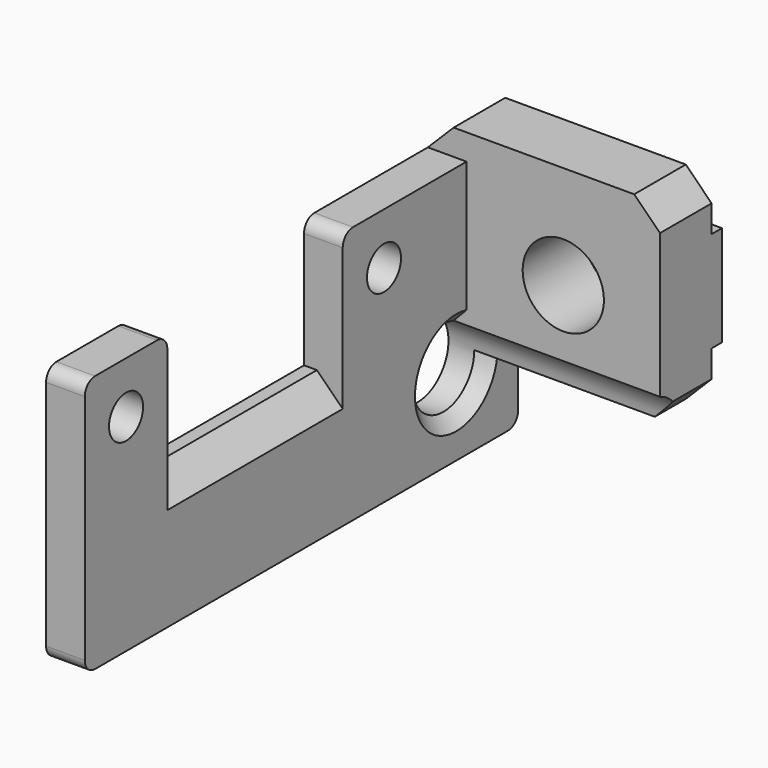
from build123d import *

# Parameters (mm, degrees)
CYLINDER055_R            = 3
CYLINDER055_DEPTH        = 26
CYLINDER047_R            = 1.65
CYLINDER047_DEPTH        = 23
CYLINDER046_R            = 1.65
CYLINDER046_DEPTH        = 23
BOX079_W                 = 3
BOX079_H                 = 17
BOX079_DEPTH             = 20
FILLET005015030019017_R  = 1
BOX080_W                 = 3
BOX080_H                 = 17
BOX080_DEPTH             = 10
CHAMFER010015011014_SIZE = 2
BOX078_W                 = 3
BOX078_H                 = 8
BOX078_DEPTH             = 20
FILLET005015030019016_R  = 1
CYLINDER054_R            = 3.15
CYLINDER054_DEPTH        = 10
BOX082_W                 = 18
BOX082_H                 = 1
BOX082_DEPTH             = 7.8
BOX081_W                 = 18
BOX081_H                 = 5
BOX081_DEPTH             = 16
CHAMFER010015011015_SIZE = 2
CHAMFER010015011016_SIZE = 1


with BuildPart() as cylinder055:
    # Cylinder055 → Cylinder055 (new body)
    with BuildSketch(Plane(origin=(40, 19.5, 6), x_dir=(0, 0, -1), z_dir=(1, 0, 0))):
        Circle(CYLINDER055_R)
    extrude(amount=CYLINDER055_DEPTH)


with BuildPart() as cylinder047:
    # Cylinder047 → Cylinder047 (new body)
    with BuildSketch(Plane(origin=(37, 12.5, 16), x_dir=(0, 0, -1), z_dir=(1, 0, 0))):
        Circle(CYLINDER047_R)
    extrude(amount=CYLINDER047_DEPTH)


with BuildPart() as fusion001021004009015013018008006003:
    # Cylinder046 → Cylinder046 (new body)
    with BuildSketch(Plane(origin=(37, -12.5, 16), x_dir=(0, 0, -1), z_dir=(1, 0, 0))):
        Circle(CYLINDER046_R)
    extrude(amount=CYLINDER046_DEPTH)

    # Fusion001021004009015013018008006003: union Cylinder047
    add(cylinder047.part)


with BuildPart() as fillet005015030019017:
    # Box079 → Box079 (new body)
    with BuildSketch(Plane(origin=(46, 8.5, 0), x_dir=(1, 0, 0), z_dir=(0, 0, 1))):
        with Locations((1.5, 8.5)):
            Rectangle(BOX079_W, BOX079_H)
    extrude(amount=BOX079_DEPTH)

    # Fillet005015030019017
    fillet005015030019017_edges = [fillet005015030019017.edges().sort_by_distance(p)[0] for p in [
        (47.5, 8.5, 20),
        (47.5, 25.5, 0),
    ]]
    fillet(fillet005015030019017_edges, radius=FILLET005015030019017_R)


with BuildPart() as chamfer010015011014:
    # Box080 → Box080 (new body)
    with BuildSketch(Plane(origin=(46, -8.5, 0), x_dir=(1, 0, 0), z_dir=(0, 0, 1))):
        with Locations((1.5, 8.5)):
            Rectangle(BOX080_W, BOX080_H)
    extrude(amount=BOX080_DEPTH)

    # Chamfer010015011014
    chamfer010015011014_edges = [chamfer010015011014.edges().sort_by_distance(p)[0] for p in [
        (49, 0, 10),
    ]]
    chamfer(chamfer010015011014_edges, length=CHAMFER010015011014_SIZE)


with BuildPart() as fillet005015030019016:
    # Box078 → Box078 (new body)
    with BuildSketch(Plane(origin=(46, -16.5, 0), x_dir=(1, 0, 0), z_dir=(0, 0, 1))):
        with Locations((1.5, 4)):
            Rectangle(BOX078_W, BOX078_H)
    extrude(amount=BOX078_DEPTH)

    # Fillet005015030019016
    fillet005015030019016_edges = [fillet005015030019016.edges().sort_by_distance(p)[0] for p in [
        (47.5, -16.5, 0),
        (47.5, -16.5, 20),
        (47.5, -8.5, 20),
    ]]
    fillet(fillet005015030019016_edges, radius=FILLET005015030019016_R)


with BuildPart() as cylinder054:
    # Cylinder054 → Cylinder054 (new body)
    with BuildSketch(Plane(origin=(56.5, 17.5, 14), x_dir=(0, 0, -1), z_dir=(0, 1, 0))):
        Circle(CYLINDER054_R)
    extrude(amount=CYLINDER054_DEPTH)


with BuildPart() as cube080:
    # Box082 → Box082 (new body)
    with BuildSketch(Plane(origin=(46, 25.5, 10.1), x_dir=(1, 0, 0), z_dir=(0, 0, 1))):
        with Locations((9, 0.5)):
            Rectangle(BOX082_W, BOX082_H)
    extrude(amount=BOX082_DEPTH)


with BuildPart() as chamfer010015011016:
    # Box081 → Box081 (new body)
    with BuildSketch(Plane(origin=(46, 20.5, 6), x_dir=(1, 0, 0), z_dir=(0, 0, 1))):
        with Locations((9, 2.5)):
            Rectangle(BOX081_W, BOX081_H)
    extrude(amount=BOX081_DEPTH)

    # Chamfer010015011015
    chamfer010015011015_edges = [chamfer010015011016.edges().sort_by_distance(p)[0] for p in [
        (46, 23, 22),
        (64, 23, 22),
        (64, 23, 6),
    ]]
    chamfer(chamfer010015011015_edges, length=CHAMFER010015011015_SIZE)

    # Fusion001021004009015013018008006004: union Cube080
    add(cube080.part)

    # Cut019003010005001012: cut Cylinder054
    add(cylinder054.part, mode=Mode.SUBTRACT)

    # Fusion001021004009015013018008006005: union Fillet005015030019017, Chamfer010015011014, Fillet005015030019016
    add(fillet005015030019017.part)
    add(chamfer010015011014.part)
    add(fillet005015030019016.part)

    # Cut019003010005001013: cut Fusion001021004009015013018008006003
    add(fusion001021004009015013018008006003.part, mode=Mode.SUBTRACT)

    # Cut019003010005001014: cut Cylinder055
    add(cylinder055.part, mode=Mode.SUBTRACT)

    # Chamfer010015011016
    chamfer010015011016_edges = [chamfer010015011016.edges().sort_by_distance(p)[0] for p in [
        (49, 16.543204, 6.507306),
    ]]
    chamfer(chamfer010015011016_edges, length=CHAMFER010015011016_SIZE)


solid = chamfer010015011016.part
